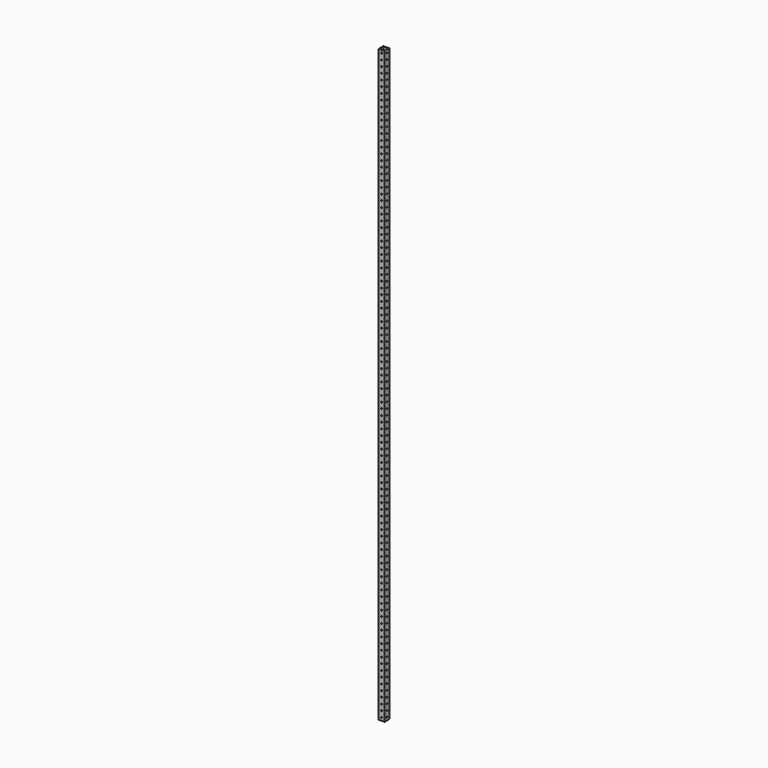
from build123d import *

# Parameters (mm, degrees)
F0_W     = 25.4
F0_H     = 25.4
F1_DEPTH = 2540
F4_W     = 22.225
F4_H     = 22.225
F5_DEPTH = 2540
F6_D     = 5.1054
F7_D     = 5.1054


with BuildPart() as f1:
    # F0 (on Top) → F1 (new body)
    with BuildSketch(Plane.XY):
        Rectangle(F0_W, F0_H)
    extrude(amount=F1_DEPTH)

    # F4 (on face) → F5 (cut)
    with BuildSketch(Plane.XY.offset(2540)):
        Rectangle(F4_W, F4_H)
    extrude(amount=-F5_DEPTH, mode=Mode.SUBTRACT)

    # F6 (through all)
    with Locations(Plane(origin=(0, 12.7, 0), x_dir=(-1, 0, 0), z_dir=(0, 1, 0))):
        with Locations((0, 12.7), (0, 520.7), (0, 927.1), (0, 1333.5), (0, 1739.9), (0, 114.3), (0, 1155.7), (0, 1562.1), (0, 1968.5), (0, 342.9), (0, 749.3), (0, 495.3), (0, 2197.1), (0, 901.7), (0, 88.9), (0, 2527.3), (0, 2501.9), (0, 2476.5), (0, 2451.1), (0, 2425.7), (0, 2400.3), (0, 2374.9), (0, 2324.1), (0, 2298.7), (0, 2273.3), (0, 1130.3), (0, 1536.7), (0, 317.5), (0, 723.9), (0, 2095.5), (0, 1282.7), (0, 1689.1), (0, 1104.9), (0, 1511.3), (0, 1917.7), (0, 292.1), (0, 698.5), (0, 2070.1), (0, 444.5), (0, 622.3), (0, 850.9), (0, 1028.7), (0, 1257.3), (0, 1435.1), (0, 1663.7), (0, 1841.5), (0, 38.1), (0, 215.9), (0, 1054.1), (0, 1460.5), (0, 1866.9), (0, 241.3), (0, 647.7), (0, 2019.3), (0, 571.5), (0, 977.9), (0, 1384.3), (0, 1790.7), (0, 165.1), (0, 368.3), (0, 774.7), (0, 546.1), (0, 952.5), (0, 1358.9), (0, 1765.3), (0, 139.7), (0, 1181.1), (0, 1587.5), (0, 1993.9), (0, 2120.9), (0, 2222.5), (0, 1308.1), (0, 1714.5), (0, 2349.5), (0, 1943.1), (0, 469.9), (0, 876.3), (0, 63.5), (0, 1079.5), (0, 1485.9), (0, 1892.3), (0, 266.7), (0, 673.1), (0, 2044.7), (0, 596.9), (0, 419.1), (0, 1003.3), (0, 825.5), (0, 1409.7), (0, 1231.9), (0, 1816.1), (0, 1638.3), (0, 190.5), (0, 393.7), (0, 800.1), (0, 1206.5), (0, 1612.9), (0, 2146.3), (0, 2247.9), (0, 2171.7)):
            Hole(F6_D / 2)

    # F7 (through all)
    with Locations(Plane(origin=(-12.7, 0, 0), x_dir=(0, -1, 0), z_dir=(-1, 0, 0))):
        with Locations((0, 1308.1), (0, 88.9), (0, 1130.3), (0, 1689.1), (0, 63.5), (0, 469.9), (0, 876.3), (0, 2197.1), (0, 2527.3), (0, 1917.7), (0, 2476.5), (0, 292.1), (0, 2451.1), (0, 698.5), (0, 1511.3), (0, 2425.7), (0, 2400.3), (0, 2374.9), (0, 2349.5), (0, 1257.3), (0, 1663.7), (0, 2070.1), (0, 2298.7), (0, 444.5), (0, 850.9), (0, 2273.3), (0, 1892.3), (0, 266.7), (0, 673.1), (0, 1079.5), (0, 1485.9), (0, 1409.7), (0, 1231.9), (0, 1816.1), (0, 1638.3), (0, 2044.7), (0, 190.5), (0, 12.7), (0, 596.9), (0, 419.1), (0, 1003.3), (0, 825.5), (0, 800.1), (0, 368.3), (0, 774.7), (0, 1587.5), (0, 1993.9), (0, 1333.5), (0, 114.3), (0, 342.9), (0, 1155.7), (0, 1562.1), (0, 1714.5), (0, 495.3), (0, 901.7), (0, 1943.1), (0, 317.5), (0, 723.9), (0, 1536.7), (0, 1282.7), (0, 2095.5), (0, 2222.5), (0, 2501.9), (0, 1104.9), (0, 2324.1), (0, 1435.1), (0, 1841.5), (0, 215.9), (0, 38.1), (0, 622.3), (0, 1028.7), (0, 1866.9), (0, 241.3), (0, 647.7), (0, 1054.1), (0, 1460.5), (0, 1384.3), (0, 1206.5), (0, 1612.9), (0, 2019.3), (0, 165.1), (0, 393.7), (0, 977.9), (0, 1181.1), (0, 1358.9), (0, 1765.3), (0, 139.7), (0, 546.1), (0, 952.5), (0, 1739.9), (0, 520.7), (0, 927.1), (0, 1968.5), (0, 749.3), (0, 2120.9), (0, 2247.9), (0, 1790.7), (0, 571.5), (0, 2171.7), (0, 2146.3)):
            Hole(F7_D / 2)


solid = f1.part
